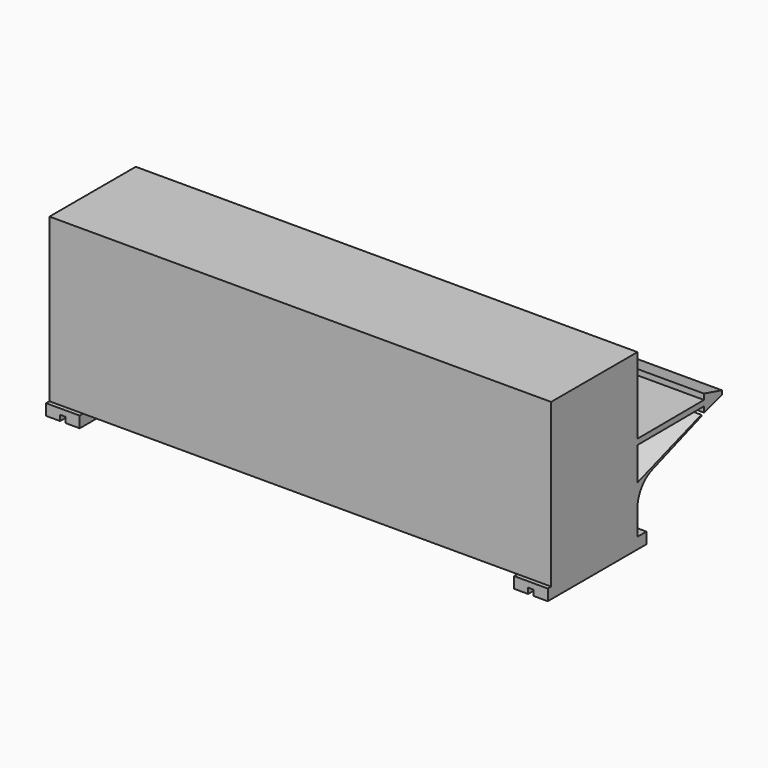
from build123d import *

# Parameters (mm, degrees)
F1_DEPTH      = 2273.3
F3_DEPTH      = 508
F3_DEPTH_BACK = 50.8


with BuildPart() as f1:
    # F0 (on Right) → F1 (new body)
    with BuildSketch(Plane.YZ):
        with BuildLine():
            Line((-488.95, 736.6), (-488.95, 0))
            Line((-488.95, 0), (0, 0))
            Line((0, 0), (0, 113.825072))
            ThreePointArc((0, 113.825072), (23.140339, 186.915227), (84.128674, 233.370249))
            Line((84.128674, 233.370249), (363.629878, 333.605051))
            Line((363.629878, 333.605051), (361.486311, 339.58231))
            Line((361.486311, 339.58231), (0, 215.9))
            Line((0, 215.9), (0.10941, 365.604809))
            Line((0.10941, 365.604809), (0, 378.304337))
            Line((0, 378.304337), (0, 391.004337))
            Line((0, 391.004337), (0, 736.6))
            Line((0, 736.6), (-488.95, 736.6))
        make_face()
        Polygon((376.729838, 392.627121), (0, 391.004337), (0, 378.304337), (0.10941, 365.604809), (376.839247, 367.227592), (376.784543, 379.927357), align=None)
        Polygon((376.620426, 418.027003), (376.729838, 392.627121), (376.784543, 379.927357), (478.3836, 380.365), (478.3836, 389.89), align=None)
        Polygon((478.3836, 380.365), (376.784543, 379.927357), (376.839247, 367.227592), (376.948659, 341.82771), (478.465657, 370.840353), align=None)
    extrude(amount=F1_DEPTH)

    # F2 (on Front) → F3 (join, two sides)
    with BuildSketch(Plane.XZ) as f3_sk:
        Polygon((76.2, 0), (0, 0), (0, -50.8), (63.5, -50.8), (63.5, -25.4), (88.9, -25.4), (88.9, -50.8), (152.4, -50.8), (152.4, 0), align=None)
        Polygon((2273.3, -50.8), (2273.3, 0), (2197.1, 0), (2120.9, 0), (2120.9, -50.8), (2184.4, -50.8), (2184.4, -25.4), (2209.8, -25.4), (2209.8, -50.8), align=None)
    extrude(amount=F3_DEPTH)
    extrude(f3_sk.sketch, amount=-F3_DEPTH_BACK)


solid = f1.part
